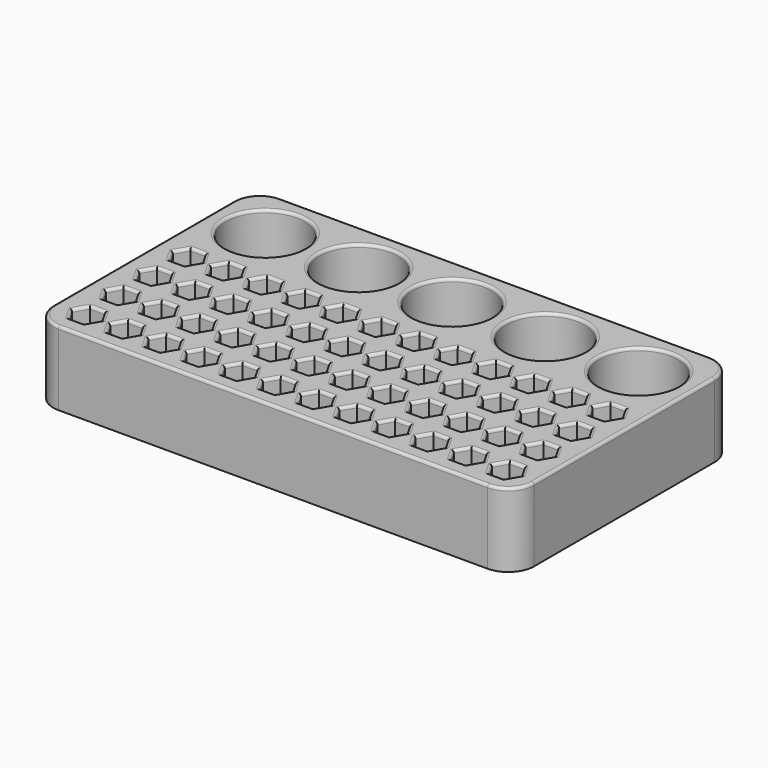
from build123d import *

# Parameters (mm, degrees)
SKETCH_W            = 130
SKETCH_H            = 75
PAD_DEPTH           = 20
SKETCH001_R         = 10.7
POCKET_DEPTH        = 18
POCKET001_DEPTH     = 18
LINEARPATTERN_COUNT = 12
LINEARPATTERN_PITCH = 10.318182
FILLET_R            = 7
FILLET001_R         = 0.75
FILLET002_R         = 0.5


with BuildPart() as part:
    # Sketch → Pad (new body)
    with BuildSketch(Plane.XY):
        Rectangle(SKETCH_W, SKETCH_H)
    extrude(amount=PAD_DEPTH)

    # Sketch001 (on Face6 of Pad) → Pocket (cut)
    with BuildSketch(Plane.XY.offset(20)):
        with Locations((-50.466667, 22.966667)):
            Circle(SKETCH001_R)
        with Locations((-25.233333, 22.966667)):
            Circle(SKETCH001_R)
        with Locations((0, 22.966667)):
            Circle(SKETCH001_R)
        with Locations((25.233333, 22.966667)):
            Circle(SKETCH001_R)
        with Locations((50.466667, 22.966667)):
            Circle(SKETCH001_R)
    extrude(amount=-POCKET_DEPTH, mode=Mode.SUBTRACT)

    # Sketch002 (on Face5 of Pocket) → Pocket001 (cut)
    with BuildSketch(Plane.XY.offset(20)):
        Polygon((-54.589229, 0.927693), (-52.589229, 4.391794), (-54.589229, 7.855896), (-58.589229, 7.855896), (-60.589229, 4.391794), (-58.589229, 0.927693), align=None)
        Polygon((-54.589229, -10.411281), (-52.589229, -6.94718), (-54.589229, -3.483078), (-58.589229, -3.483078), (-60.589229, -6.94718), (-58.589229, -10.411281), align=None)
        Polygon((-54.589229, -21.750255), (-52.589229, -18.286154), (-54.589229, -14.822052), (-58.589229, -14.822052), (-60.589229, -18.286154), (-58.589229, -21.750255), align=None)
        Polygon((-54.589229, -33.089229), (-52.589229, -29.625128), (-54.589229, -26.161026), (-58.589229, -26.161026), (-60.589229, -29.625128), (-58.589229, -33.089229), align=None)
    pocket001 = extrude(amount=-POCKET001_DEPTH, mode=Mode.SUBTRACT)

    # LinearPattern: Pocket001 ×12
    with Locations(*[(i * LINEARPATTERN_PITCH, 0, 0) for i in range(1, LINEARPATTERN_COUNT)]):
        add(pocket001, mode=Mode.SUBTRACT)

    # Fillet
    fillet_edges = [part.edges().sort_by_distance(p)[0] for p in [
        (65, 37.5, 10),
        (65, -37.5, 10),
        (-65, -37.5, 10),
        (-65, 37.5, 10),
    ]]
    fillet(fillet_edges, radius=FILLET_R)

    # Fillet001
    fillet001_edges = [part.edges().sort_by_distance(p)[0] for p in [
        (-65, 0, 20),
        (-62.949747, 35.449747, 20),
        (-62.949747, -35.449747, 20),
        (0, 37.5, 20),
        (0, -37.5, 20),
        (62.949747, 35.449747, 20),
        (62.949747, -35.449747, 20),
        (65, 0, 20),
        (-53.589229, -31.357178, 20),
        (-56.589229, -33.089229, 20),
        (-53.589229, -27.893077, 20),
        (-59.589229, -31.357178, 20),
        (-56.589229, -26.161026, 20),
        (-59.589229, -27.893077, 20),
        (-43.271047, -31.357178, 20),
        (-43.271047, -27.893077, 20),
        (-46.271047, -26.161026, 20),
        (-49.271047, -27.893077, 20),
        (-49.271047, -31.357178, 20),
        (-46.271047, -33.089229, 20),
        (-32.952866, -31.357178, 20),
        (-32.952866, -27.893077, 20),
        (-35.952866, -26.161026, 20),
        (-38.952866, -27.893077, 20),
        (-38.952866, -31.357178, 20),
        (-35.952866, -33.089229, 20),
        (-53.589229, -20.018204, 20),
        (-56.589229, -21.750255, 20),
        (-53.589229, -16.554103, 20),
        (-59.589229, -20.018204, 20),
        (-56.589229, -14.822052, 20),
        (-59.589229, -16.554103, 20),
        (-43.271047, -20.018204, 20),
        (-43.271047, -16.554103, 20),
        (-46.271047, -14.822052, 20),
        (-49.271047, -16.554103, 20),
        (-49.271047, -20.018204, 20),
        (-46.271047, -21.750255, 20),
        (-32.952866, -20.018204, 20),
        (-32.952866, -16.554103, 20),
        (-35.952866, -14.822052, 20),
        (-38.952866, -16.554103, 20),
        (-38.952866, -20.018204, 20),
        (-35.952866, -21.750255, 20),
        (-22.634684, -31.357178, 20),
        (-22.634684, -27.893077, 20),
        (-25.634684, -26.161026, 20),
        (-28.634684, -27.893077, 20),
        (-28.634684, -31.357178, 20),
        (-25.634684, -33.089229, 20),
        (-12.316502, -31.357178, 20),
        (-12.316502, -27.893077, 20),
        (-15.316502, -26.161026, 20),
        (-18.316502, -27.893077, 20),
        (-18.316502, -31.357178, 20),
        (-15.316502, -33.089229, 20),
        (-1.99832, -31.357178, 20),
        (-1.99832, -27.893077, 20),
        (-4.99832, -26.161026, 20),
        (-7.99832, -27.893077, 20),
        (-7.99832, -31.357178, 20),
        (-4.99832, -33.089229, 20),
        (-22.634684, -20.018204, 20),
        (-22.634684, -16.554103, 20),
        (-25.634684, -14.822052, 20),
        (-28.634684, -16.554103, 20),
        (-28.634684, -20.018204, 20),
        (-25.634684, -21.750255, 20),
        (-12.316502, -20.018204, 20),
        (-12.316502, -16.554103, 20),
        (-15.316502, -14.822052, 20),
        (-18.316502, -16.554103, 20),
        (-18.316502, -20.018204, 20),
        (-15.316502, -21.750255, 20),
        (-1.99832, -20.018204, 20),
        (-1.99832, -16.554103, 20),
        (-4.99832, -14.822052, 20),
        (-7.99832, -16.554103, 20),
        (-7.99832, -20.018204, 20),
        (-4.99832, -21.750255, 20),
        (-53.589229, -8.67923, 20),
        (-56.589229, -10.411281, 20),
        (-53.589229, -5.215129, 20),
        (-59.589229, -8.67923, 20),
        (-56.589229, -3.483078, 20),
        (-59.589229, -5.215129, 20),
        (-43.271047, -8.67923, 20),
        (-43.271047, -5.215129, 20),
        (-46.271047, -3.483078, 20),
        (-49.271047, -5.215129, 20),
        (-49.271047, -8.67923, 20),
        (-46.271047, -10.411281, 20),
        (-32.952866, -8.67923, 20),
        (-32.952866, -5.215129, 20),
        (-35.952866, -3.483078, 20),
        (-38.952866, -5.215129, 20),
        (-38.952866, -8.67923, 20),
        (-35.952866, -10.411281, 20),
        (-22.634684, -8.67923, 20),
        (-22.634684, -5.215129, 20),
        (-25.634684, -3.483078, 20),
        (-28.634684, -5.215129, 20),
        (-28.634684, -8.67923, 20),
        (-25.634684, -10.411281, 20),
        (-12.316502, -8.67923, 20),
        (-12.316502, -5.215129, 20),
        (-15.316502, -3.483078, 20),
        (-18.316502, -5.215129, 20),
        (-18.316502, -8.67923, 20),
        (-15.316502, -10.411281, 20),
        (-1.99832, -8.67923, 20),
        (-1.99832, -5.215129, 20),
        (-4.99832, -3.483078, 20),
        (-7.99832, -5.215129, 20),
        (-7.99832, -8.67923, 20),
        (-4.99832, -10.411281, 20),
        (8.319862, -31.357178, 20),
        (8.319862, -27.893077, 20),
        (5.319862, -26.161026, 20),
        (2.319862, -27.893077, 20),
        (2.319862, -31.357178, 20),
        (5.319862, -33.089229, 20),
        (18.638043, -31.357178, 20),
        (18.638043, -27.893077, 20),
        (15.638043, -26.161026, 20),
        (12.638043, -27.893077, 20),
        (12.638043, -31.357178, 20),
        (15.638043, -33.089229, 20),
        (28.956225, -31.357178, 20),
        (28.956225, -27.893077, 20),
        (25.956225, -26.161026, 20),
        (22.956225, -27.893077, 20),
        (22.956225, -31.357178, 20),
        (25.956225, -33.089229, 20),
        (8.319862, -20.018204, 20),
        (8.319862, -16.554103, 20),
        (5.319862, -14.822052, 20),
        (2.319862, -16.554103, 20),
        (2.319862, -20.018204, 20),
        (5.319862, -21.750255, 20),
        (18.638043, -20.018204, 20),
        (18.638043, -16.554103, 20),
        (15.638043, -14.822052, 20),
        (12.638043, -16.554103, 20),
        (12.638043, -20.018204, 20),
        (15.638043, -21.750255, 20),
        (28.956225, -20.018204, 20),
        (28.956225, -16.554103, 20),
        (25.956225, -14.822052, 20),
        (22.956225, -16.554103, 20),
        (22.956225, -20.018204, 20),
        (25.956225, -21.750255, 20),
        (39.274407, -31.357178, 20),
        (39.274407, -27.893077, 20),
        (36.274407, -26.161026, 20),
        (33.274407, -27.893077, 20),
        (33.274407, -31.357178, 20),
        (36.274407, -33.089229, 20),
        (49.592589, -31.357178, 20),
        (49.592589, -27.893077, 20),
        (46.592589, -26.161026, 20),
        (43.592589, -27.893077, 20),
        (43.592589, -31.357178, 20),
        (46.592589, -33.089229, 20),
        (59.910771, -31.357178, 20),
        (59.910771, -27.893077, 20),
        (56.910771, -26.161026, 20),
        (53.910771, -27.893077, 20),
        (53.910771, -31.357178, 20),
        (56.910771, -33.089229, 20),
        (39.274407, -20.018204, 20),
        (39.274407, -16.554103, 20),
        (36.274407, -14.822052, 20),
        (33.274407, -16.554103, 20),
        (33.274407, -20.018204, 20),
        (36.274407, -21.750255, 20),
        (49.592589, -20.018204, 20),
        (49.592589, -16.554103, 20),
        (46.592589, -14.822052, 20),
        (43.592589, -16.554103, 20),
        (43.592589, -20.018204, 20),
        (46.592589, -21.750255, 20),
        (59.910771, -20.018204, 20),
        (59.910771, -16.554103, 20),
        (56.910771, -14.822052, 20),
        (53.910771, -16.554103, 20),
        (53.910771, -20.018204, 20),
        (56.910771, -21.750255, 20),
        (8.319862, -8.67923, 20),
        (8.319862, -5.215129, 20),
        (5.319862, -3.483078, 20),
        (2.319862, -5.215129, 20),
        (2.319862, -8.67923, 20),
        (5.319862, -10.411281, 20),
        (18.638043, -8.67923, 20),
        (18.638043, -5.215129, 20),
        (15.638043, -3.483078, 20),
        (12.638043, -5.215129, 20),
        (12.638043, -8.67923, 20),
        (15.638043, -10.411281, 20),
        (28.956225, -8.67923, 20),
        (28.956225, -5.215129, 20),
        (25.956225, -3.483078, 20),
        (22.956225, -5.215129, 20),
        (22.956225, -8.67923, 20),
        (25.956225, -10.411281, 20),
        (39.274407, -8.67923, 20),
        (39.274407, -5.215129, 20),
        (36.274407, -3.483078, 20),
        (33.274407, -5.215129, 20),
        (33.274407, -8.67923, 20),
        (36.274407, -10.411281, 20),
        (49.592589, -8.67923, 20),
        (49.592589, -5.215129, 20),
        (46.592589, -3.483078, 20),
        (43.592589, -5.215129, 20),
        (43.592589, -8.67923, 20),
        (46.592589, -10.411281, 20),
        (59.910771, -8.67923, 20),
        (59.910771, -5.215129, 20),
        (56.910771, -3.483078, 20),
        (53.910771, -5.215129, 20),
        (53.910771, -8.67923, 20),
        (56.910771, -10.411281, 20),
        (-53.589229, 2.659743, 20),
        (-56.589229, 0.927693, 20),
        (-53.589229, 6.123845, 20),
        (-59.589229, 2.659743, 20),
        (-56.589229, 7.855896, 20),
        (-59.589229, 6.123845, 20),
        (-43.271047, 2.659743, 20),
        (-43.271047, 6.123845, 20),
        (-46.271047, 7.855896, 20),
        (-49.271047, 6.123845, 20),
        (-49.271047, 2.659743, 20),
        (-46.271047, 0.927693, 20),
        (-32.952866, 2.659743, 20),
        (-32.952866, 6.123845, 20),
        (-35.952866, 7.855896, 20),
        (-38.952866, 6.123845, 20),
        (-38.952866, 2.659743, 20),
        (-35.952866, 0.927693, 20),
        (-22.634684, 2.659743, 20),
        (-22.634684, 6.123845, 20),
        (-25.634684, 7.855896, 20),
        (-28.634684, 6.123845, 20),
        (-28.634684, 2.659743, 20),
        (-25.634684, 0.927693, 20),
        (-12.316502, 2.659743, 20),
        (-12.316502, 6.123845, 20),
        (-15.316502, 7.855896, 20),
        (-18.316502, 6.123845, 20),
        (-18.316502, 2.659743, 20),
        (-15.316502, 0.927693, 20),
        (-1.99832, 2.659743, 20),
        (-1.99832, 6.123845, 20),
        (-4.99832, 7.855896, 20),
        (-7.99832, 6.123845, 20),
        (-7.99832, 2.659743, 20),
        (-4.99832, 0.927693, 20),
        (-61.166667, 22.966667, 20),
        (-35.933333, 22.966667, 20),
        (8.319862, 2.659743, 20),
        (8.319862, 6.123845, 20),
        (5.319862, 7.855896, 20),
        (2.319862, 6.123845, 20),
        (2.319862, 2.659743, 20),
        (5.319862, 0.927693, 20),
        (18.638043, 2.659743, 20),
        (18.638043, 6.123845, 20),
        (15.638043, 7.855896, 20),
        (12.638043, 6.123845, 20),
        (12.638043, 2.659743, 20),
        (15.638043, 0.927693, 20),
        (28.956225, 2.659743, 20),
        (28.956225, 6.123845, 20),
        (25.956225, 7.855896, 20),
        (22.956225, 6.123845, 20),
        (22.956225, 2.659743, 20),
        (25.956225, 0.927693, 20),
        (39.274407, 2.659743, 20),
        (39.274407, 6.123845, 20),
        (36.274407, 7.855896, 20),
        (33.274407, 6.123845, 20),
        (33.274407, 2.659743, 20),
        (36.274407, 0.927693, 20),
        (49.592589, 2.659743, 20),
        (49.592589, 6.123845, 20),
        (46.592589, 7.855896, 20),
        (43.592589, 6.123845, 20),
        (43.592589, 2.659743, 20),
        (46.592589, 0.927693, 20),
        (59.910771, 2.659743, 20),
        (59.910771, 6.123845, 20),
        (56.910771, 7.855896, 20),
        (53.910771, 6.123845, 20),
        (53.910771, 2.659743, 20),
        (56.910771, 0.927693, 20),
        (-10.7, 22.966667, 20),
        (14.533333, 22.966667, 20),
        (39.766667, 22.966667, 20),
    ]]
    fillet(fillet001_edges, radius=FILLET001_R)

    # Fillet002
    fillet002_edges = [part.edges().sort_by_distance(p)[0] for p in [
        (-61.166667, 22.966667, 2),
        (-35.933333, 22.966667, 2),
        (-10.7, 22.966667, 2),
        (14.533333, 22.966667, 2),
        (39.766667, 22.966667, 2),
        (59.910771, 2.659743, 2),
        (59.910771, 6.123845, 2),
        (56.910771, 7.855896, 2),
        (53.910771, 6.123845, 2),
        (53.910771, 2.659743, 2),
        (56.910771, 0.927693, 2),
        (49.592589, 2.659743, 2),
        (49.592589, 6.123845, 2),
        (46.592589, 7.855896, 2),
        (43.592589, 6.123845, 2),
        (43.592589, 2.659743, 2),
        (46.592589, 0.927693, 2),
        (39.274407, 2.659743, 2),
        (39.274407, 6.123845, 2),
        (36.274407, 7.855896, 2),
        (33.274407, 6.123845, 2),
        (33.274407, 2.659743, 2),
        (36.274407, 0.927693, 2),
        (28.956225, 2.659743, 2),
        (28.956225, 6.123845, 2),
        (25.956225, 7.855896, 2),
        (22.956225, 6.123845, 2),
        (22.956225, 2.659743, 2),
        (25.956225, 0.927693, 2),
        (18.638043, 2.659743, 2),
        (18.638043, 6.123845, 2),
        (15.638043, 7.855896, 2),
        (12.638043, 6.123845, 2),
        (12.638043, 2.659743, 2),
        (15.638043, 0.927693, 2),
        (8.319862, 2.659743, 2),
        (8.319862, 6.123845, 2),
        (5.319862, 7.855896, 2),
        (2.319862, 6.123845, 2),
        (2.319862, 2.659743, 2),
        (5.319862, 0.927693, 2),
        (-1.99832, 2.659743, 2),
        (-1.99832, 6.123845, 2),
        (-4.99832, 7.855896, 2),
        (-7.99832, 6.123845, 2),
        (-7.99832, 2.659743, 2),
        (-4.99832, 0.927693, 2),
        (-12.316502, 2.659743, 2),
        (-12.316502, 6.123845, 2),
        (-15.316502, 7.855896, 2),
        (-18.316502, 6.123845, 2),
        (-18.316502, 2.659743, 2),
        (-15.316502, 0.927693, 2),
        (-22.634684, 2.659743, 2),
        (-22.634684, 6.123845, 2),
        (-25.634684, 7.855896, 2),
        (-28.634684, 6.123845, 2),
        (-28.634684, 2.659743, 2),
        (-25.634684, 0.927693, 2),
        (-32.952866, 2.659743, 2),
        (-32.952866, 6.123845, 2),
        (-35.952866, 7.855896, 2),
        (-38.952866, 6.123845, 2),
        (-38.952866, 2.659743, 2),
        (-35.952866, 0.927693, 2),
        (-43.271047, 2.659743, 2),
        (-43.271047, 6.123845, 2),
        (-46.271047, 7.855896, 2),
        (-49.271047, 6.123845, 2),
        (-49.271047, 2.659743, 2),
        (-46.271047, 0.927693, 2),
        (-53.589229, 2.659743, 2),
        (-53.589229, 6.123845, 2),
        (-56.589229, 7.855896, 2),
        (-59.589229, 6.123845, 2),
        (-59.589229, 2.659743, 2),
        (-56.589229, 0.927693, 2),
        (-53.589229, -8.67923, 2),
        (-53.589229, -5.215129, 2),
        (-56.589229, -3.483078, 2),
        (-59.589229, -5.215129, 2),
        (-59.589229, -8.67923, 2),
        (-56.589229, -10.411281, 2),
        (-43.271047, -8.67923, 2),
        (-43.271047, -5.215129, 2),
        (-46.271047, -3.483078, 2),
        (-49.271047, -5.215129, 2),
        (-49.271047, -8.67923, 2),
        (-46.271047, -10.411281, 2),
        (-32.952866, -8.67923, 2),
        (-32.952866, -5.215129, 2),
        (-35.952866, -3.483078, 2),
        (-38.952866, -5.215129, 2),
        (-38.952866, -8.67923, 2),
        (-35.952866, -10.411281, 2),
        (-22.634684, -8.67923, 2),
        (-22.634684, -5.215129, 2),
        (-25.634684, -3.483078, 2),
        (-28.634684, -5.215129, 2),
        (-28.634684, -8.67923, 2),
        (-25.634684, -10.411281, 2),
        (-12.316502, -8.67923, 2),
        (-12.316502, -5.215129, 2),
        (-15.316502, -3.483078, 2),
        (-18.316502, -5.215129, 2),
        (-18.316502, -8.67923, 2),
        (-15.316502, -10.411281, 2),
        (-1.99832, -8.67923, 2),
        (-1.99832, -5.215129, 2),
        (-4.99832, -3.483078, 2),
        (-7.99832, -5.215129, 2),
        (-7.99832, -8.67923, 2),
        (-4.99832, -10.411281, 2),
        (8.319862, -8.67923, 2),
        (8.319862, -5.215129, 2),
        (5.319862, -3.483078, 2),
        (2.319862, -5.215129, 2),
        (2.319862, -8.67923, 2),
        (5.319862, -10.411281, 2),
        (18.638043, -8.67923, 2),
        (18.638043, -5.215129, 2),
        (15.638043, -3.483078, 2),
        (12.638043, -5.215129, 2),
        (12.638043, -8.67923, 2),
        (15.638043, -10.411281, 2),
        (28.956225, -8.67923, 2),
        (28.956225, -5.215129, 2),
        (25.956225, -3.483078, 2),
        (22.956225, -5.215129, 2),
        (22.956225, -8.67923, 2),
        (25.956225, -10.411281, 2),
        (39.274407, -8.67923, 2),
        (39.274407, -5.215129, 2),
        (36.274407, -3.483078, 2),
        (33.274407, -5.215129, 2),
        (33.274407, -8.67923, 2),
        (36.274407, -10.411281, 2),
        (49.592589, -8.67923, 2),
        (49.592589, -5.215129, 2),
        (46.592589, -3.483078, 2),
        (43.592589, -5.215129, 2),
        (43.592589, -8.67923, 2),
        (46.592589, -10.411281, 2),
        (59.910771, -8.67923, 2),
        (59.910771, -5.215129, 2),
        (56.910771, -3.483078, 2),
        (53.910771, -5.215129, 2),
        (53.910771, -8.67923, 2),
        (56.910771, -10.411281, 2),
        (59.910771, -20.018204, 2),
        (59.910771, -16.554103, 2),
        (56.910771, -14.822052, 2),
        (53.910771, -16.554103, 2),
        (53.910771, -20.018204, 2),
        (56.910771, -21.750255, 2),
        (49.592589, -20.018204, 2),
        (49.592589, -16.554103, 2),
        (46.592589, -14.822052, 2),
        (43.592589, -16.554103, 2),
        (43.592589, -20.018204, 2),
        (46.592589, -21.750255, 2),
        (39.274407, -20.018204, 2),
        (39.274407, -16.554103, 2),
        (36.274407, -14.822052, 2),
        (33.274407, -16.554103, 2),
        (33.274407, -20.018204, 2),
        (36.274407, -21.750255, 2),
        (28.956225, -20.018204, 2),
        (28.956225, -16.554103, 2),
        (25.956225, -14.822052, 2),
        (22.956225, -16.554103, 2),
        (22.956225, -20.018204, 2),
        (25.956225, -21.750255, 2),
        (18.638043, -20.018204, 2),
        (18.638043, -16.554103, 2),
        (15.638043, -14.822052, 2),
        (12.638043, -16.554103, 2),
        (12.638043, -20.018204, 2),
        (15.638043, -21.750255, 2),
        (8.319862, -20.018204, 2),
        (8.319862, -16.554103, 2),
        (5.319862, -14.822052, 2),
        (2.319862, -16.554103, 2),
        (2.319862, -20.018204, 2),
        (5.319862, -21.750255, 2),
        (-1.99832, -20.018204, 2),
        (-1.99832, -16.554103, 2),
        (-4.99832, -14.822052, 2),
        (-7.99832, -16.554103, 2),
        (-7.99832, -20.018204, 2),
        (-4.99832, -21.750255, 2),
        (-12.316502, -20.018204, 2),
        (-12.316502, -16.554103, 2),
        (-15.316502, -14.822052, 2),
        (-18.316502, -16.554103, 2),
        (-18.316502, -20.018204, 2),
        (-15.316502, -21.750255, 2),
        (-22.634684, -20.018204, 2),
        (-22.634684, -16.554103, 2),
        (-25.634684, -14.822052, 2),
        (-28.634684, -16.554103, 2),
        (-28.634684, -20.018204, 2),
        (-25.634684, -21.750255, 2),
        (-32.952866, -20.018204, 2),
        (-32.952866, -16.554103, 2),
        (-35.952866, -14.822052, 2),
        (-38.952866, -16.554103, 2),
        (-38.952866, -20.018204, 2),
        (-35.952866, -21.750255, 2),
        (-43.271047, -20.018204, 2),
        (-43.271047, -16.554103, 2),
        (-46.271047, -14.822052, 2),
        (-49.271047, -16.554103, 2),
        (-49.271047, -20.018204, 2),
        (-46.271047, -21.750255, 2),
        (-53.589229, -20.018204, 2),
        (-53.589229, -16.554103, 2),
        (-56.589229, -14.822052, 2),
        (-59.589229, -16.554103, 2),
        (-59.589229, -20.018204, 2),
        (-56.589229, -21.750255, 2),
        (-53.589229, -31.357178, 2),
        (-53.589229, -27.893077, 2),
        (-56.589229, -26.161026, 2),
        (-59.589229, -27.893077, 2),
        (-59.589229, -31.357178, 2),
        (-56.589229, -33.089229, 2),
        (-43.271047, -31.357178, 2),
        (-43.271047, -27.893077, 2),
        (-46.271047, -26.161026, 2),
        (-49.271047, -27.893077, 2),
        (-49.271047, -31.357178, 2),
        (-46.271047, -33.089229, 2),
        (-32.952866, -31.357178, 2),
        (-32.952866, -27.893077, 2),
        (-35.952866, -26.161026, 2),
        (-38.952866, -27.893077, 2),
        (-38.952866, -31.357178, 2),
        (-35.952866, -33.089229, 2),
        (-22.634684, -31.357178, 2),
        (-22.634684, -27.893077, 2),
        (-25.634684, -26.161026, 2),
        (-28.634684, -27.893077, 2),
        (-28.634684, -31.357178, 2),
        (-25.634684, -33.089229, 2),
        (-12.316502, -31.357178, 2),
        (-12.316502, -27.893077, 2),
        (-15.316502, -26.161026, 2),
        (-18.316502, -27.893077, 2),
        (-18.316502, -31.357178, 2),
        (-15.316502, -33.089229, 2),
        (-1.99832, -31.357178, 2),
        (-1.99832, -27.893077, 2),
        (-4.99832, -26.161026, 2),
        (-7.99832, -27.893077, 2),
        (-7.99832, -31.357178, 2),
        (-4.99832, -33.089229, 2),
        (8.319862, -31.357178, 2),
        (8.319862, -27.893077, 2),
        (5.319862, -26.161026, 2),
        (2.319862, -27.893077, 2),
        (2.319862, -31.357178, 2),
        (5.319862, -33.089229, 2),
        (18.638043, -31.357178, 2),
        (18.638043, -27.893077, 2),
        (15.638043, -26.161026, 2),
        (12.638043, -27.893077, 2),
        (12.638043, -31.357178, 2),
        (15.638043, -33.089229, 2),
        (28.956225, -31.357178, 2),
        (28.956225, -27.893077, 2),
        (25.956225, -26.161026, 2),
        (22.956225, -27.893077, 2),
        (22.956225, -31.357178, 2),
        (25.956225, -33.089229, 2),
        (39.274407, -31.357178, 2),
        (39.274407, -27.893077, 2),
        (36.274407, -26.161026, 2),
        (33.274407, -27.893077, 2),
        (33.274407, -31.357178, 2),
        (36.274407, -33.089229, 2),
        (49.592589, -31.357178, 2),
        (49.592589, -27.893077, 2),
        (46.592589, -26.161026, 2),
        (43.592589, -27.893077, 2),
        (43.592589, -31.357178, 2),
        (46.592589, -33.089229, 2),
        (59.910771, -31.357178, 2),
        (59.910771, -27.893077, 2),
        (56.910771, -26.161026, 2),
        (53.910771, -27.893077, 2),
        (53.910771, -31.357178, 2),
        (56.910771, -33.089229, 2),
    ]]
    fillet(fillet002_edges, radius=FILLET002_R)


solid = part.part
